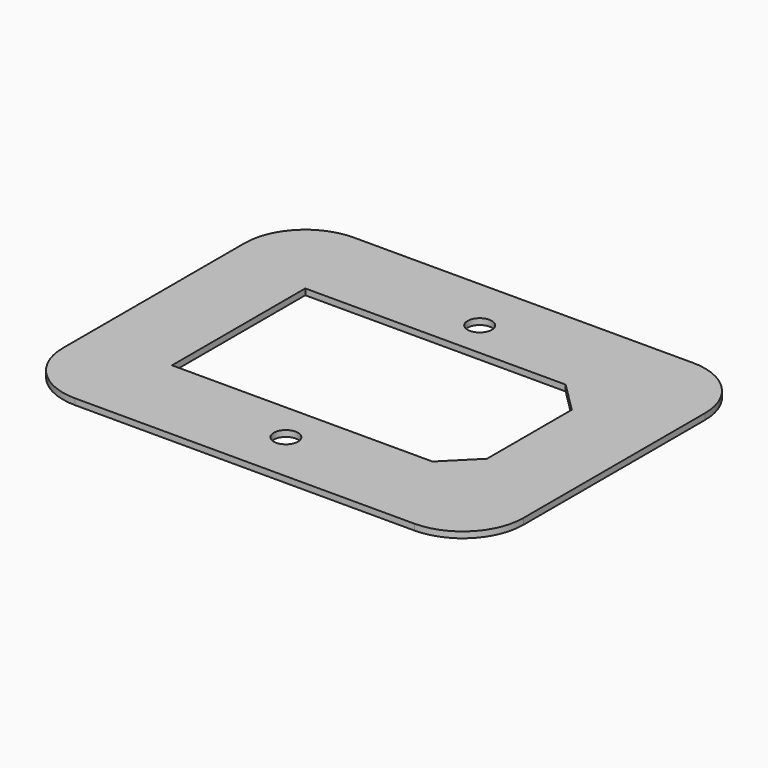
from build123d import *

# Parameters (mm, degrees)
F0_W     = 76
F0_H     = 57.5
F0_R     = 2
F0_W_2   = 48
F0_H_2   = 27.5
F1_DEPTH = 1
F2_R     = 10
F3_SIZE  = 5


with BuildPart() as f1:
    # F0 (on Top) → F1 (new body)
    with BuildSketch(Plane.XY):
        Rectangle(F0_W, F0_H)
        with Locations((0, -20.25)):
            Circle(F0_R, mode=Mode.SUBTRACT)
        Rectangle(F0_W_2, F0_H_2, mode=Mode.SUBTRACT)
        with Locations((0, 19.75)):
            Circle(F0_R, mode=Mode.SUBTRACT)
    extrude(amount=F1_DEPTH)

    # F2
    f2_edges = [f1.edges().sort_by_distance(p)[0] for p in [
        (-38, 28.75, 0.5),
        (-38, -28.75, 0.5),
        (38, 28.75, 0.5),
        (38, -28.75, 0.5),
    ]]
    fillet(f2_edges, radius=F2_R)

    # F3
    f3_edges = [f1.edges().sort_by_distance(p)[0] for p in [
        (24, 13.75, 0.5),
        (24, -13.75, 0.5),
    ]]
    chamfer(f3_edges, length=F3_SIZE)


solid = f1.part
